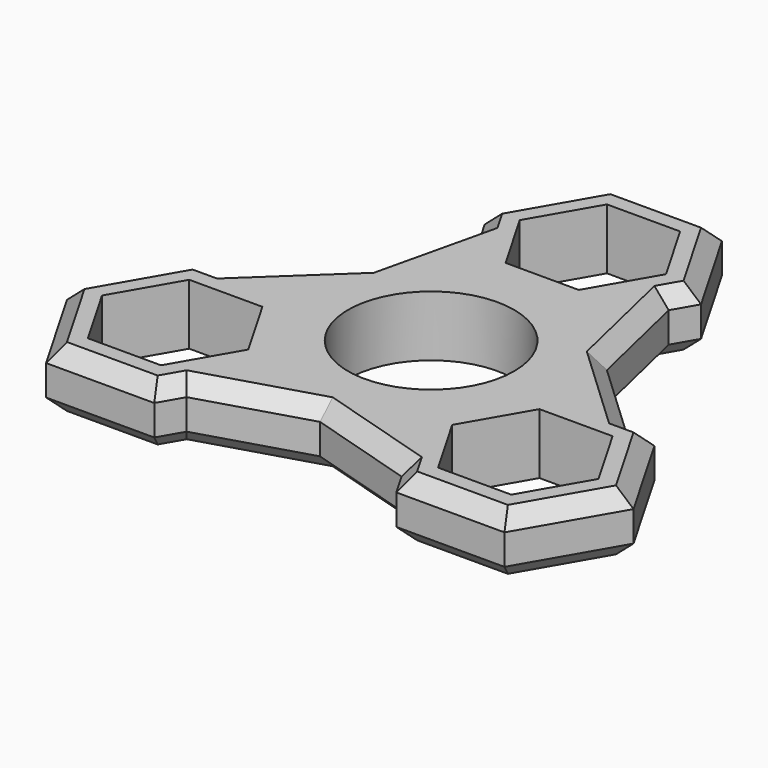
from build123d import *

# Parameters (mm, degrees)
F0_R     = 10.95
F1_DEPTH = 4
F2_SIZE  = 2


with BuildPart() as f1:
    # F0 (on Top) → F1 (new body, symmetric)
    with BuildSketch(Plane.XY):
        Polygon((-7.130276, 39), (-14.260552, 26.65), (-12.471705, 23.551626), (-15.848265, 9.15), (-26.632159, -0.975), (-30.209853, -0.975), (-37.340129, -13.325), (-30.209853, -25.675), (-15.949301, -25.675), (-14.160454, -22.576626), (0, -18.3), (14.160454, -22.576626), (15.949301, -25.675), (30.209853, -25.675), (37.340129, -13.325), (30.209853, -0.975), (26.632159, -0.975), (15.848265, 9.15), (12.471705, 23.551626), (14.260552, 26.65), (7.130276, 39), align=None)
        Polygon((-18.258702, -4.975), (-13.437828, -13.325), (-18.258702, -21.675), (-27.900452, -21.675), (-32.721327, -13.325), (-27.900452, -4.975), align=None, mode=Mode.SUBTRACT)
        Polygon((13.437828, -13.325), (18.258702, -4.975), (27.900452, -4.975), (32.721327, -13.325), (27.900452, -21.675), (18.258702, -21.675), align=None, mode=Mode.SUBTRACT)
        Circle(F0_R, mode=Mode.SUBTRACT)
        Polygon((9.641749, 26.65), (4.820875, 18.3), (-4.820875, 18.3), (-9.641749, 26.65), (-4.820875, 35), (4.820875, 35), align=None, mode=Mode.SUBTRACT)
    extrude(amount=F1_DEPTH, both=True)

    # F2
    f2_edges = [f1.edges().sort_by_distance(p)[0] for p in [
        (10.695414, 32.825, 4),
        (0, 39, 4),
        (-10.695414, 32.825, 4),
        (-13.366128, 25.100813, 4),
        (13.366128, 25.100813, 4),
        (14.159985, 16.350813, 4),
        (21.240212, 4.0875, 4),
        (28.421006, -0.975, 4),
        (33.774991, -7.15, 4),
        (33.774991, -19.5, 4),
        (23.079577, -25.675, 4),
        (7.080227, -20.438313, 4),
        (-7.080227, -20.438313, 4),
        (-15.054878, -24.125813, 4),
        (15.054878, -24.125813, 4),
        (-23.079577, -25.675, 4),
        (-33.774991, -19.5, 4),
        (-33.774991, -7.15, 4),
        (-21.240212, 4.0875, 4),
        (-14.159985, 16.350813, 4),
        (-28.421006, -0.975, 4),
        (-21.240212, 4.0875, -4),
        (-14.159985, 16.350813, -4),
        (-13.366128, 25.100813, -4),
        (-10.695414, 32.825, -4),
        (0, 39, -4),
        (10.695414, 32.825, -4),
        (13.366128, 25.100813, -4),
        (14.159985, 16.350813, -4),
        (21.240212, 4.0875, -4),
        (28.421006, -0.975, -4),
        (33.774991, -7.15, -4),
        (33.774991, -19.5, -4),
        (23.079577, -25.675, -4),
        (15.054878, -24.125813, -4),
        (7.080227, -20.438313, -4),
        (-7.080227, -20.438313, -4),
        (-15.054878, -24.125813, -4),
        (-23.079577, -25.675, -4),
        (-33.774991, -19.5, -4),
        (-33.774991, -7.15, -4),
        (-28.421006, -0.975, -4),
    ]]
    chamfer(f2_edges, length=F2_SIZE)


solid = f1.part
